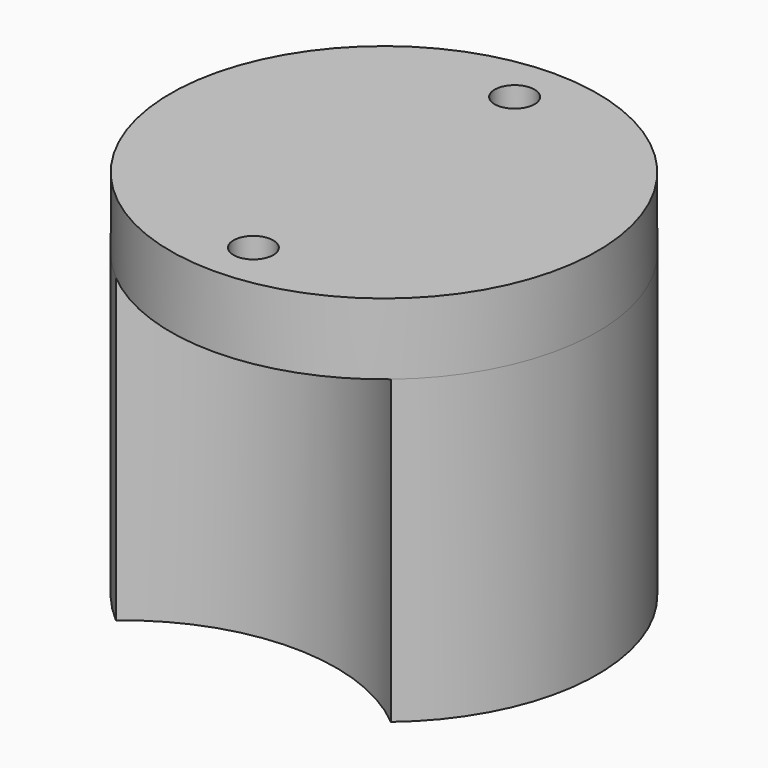
from build123d import *

# Parameters (mm, degrees)
SKETCH076_R             = 15
PAD017_DEPTH            = 5
SKETCH075_R             = 1.4
POCKET048_DEPTH         = 5.001
PAD018_DEPTH            = 21.2
SKETCH074_R             = 4
POCKET047_DEPTH         = 4
SKETCH078_R             = 1.4
POCKET049_DEPTH         = 8
BODY001_ROLL_ANGLE      = -90
BODY001_PLACEMENT_ANGLE = -90


with BuildPart() as part:
    # Sketch076 → Pad017 (new body)
    with BuildSketch(Plane.XZ):
        Circle(SKETCH076_R)
    extrude(amount=PAD017_DEPTH)

    # Sketch075 (on Face2 of Pad017) → Pocket048 (cut, through all)
    with BuildSketch(Plane(origin=(0, 0, 0), x_dir=(1, 0, 0), z_dir=(0, 1, 0))):
        with Locations((-11.475, 0)):
            Circle(SKETCH075_R)
        with Locations((11.475, 0)):
            Circle(SKETCH075_R)
    extrude(amount=-POCKET048_DEPTH, mode=Mode.SUBTRACT)

    # Sketch077 (on Face2 of Pocket048) → Pad018 (join)
    with BuildSketch(Plane(origin=(0, 0, 0), x_dir=(1, 0, 0), z_dir=(0, 1, 0))):
        with BuildLine():
            ThreePointArc((11.475, 9.660454), (0, 15), (-11.475, 9.660454))
            ThreePointArc((-11.475, -9.660454), (-7.95, 0), (-11.475, 9.660454))
            ThreePointArc((-11.475, -9.660454), (0, -15), (11.475, -9.660454))
            ThreePointArc((11.475, 9.660454), (7.95, 0), (11.475, -9.660454))
        make_face()
    extrude(amount=PAD018_DEPTH)

    # Sketch074 (on Face10 of Pad018) → Pocket047 (cut)
    with BuildSketch(Plane(origin=(0, 21.2, 0), x_dir=(1, 0, 0), z_dir=(0, 1, 0))):
        Circle(SKETCH074_R)
    extrude(amount=-POCKET047_DEPTH, mode=Mode.SUBTRACT)

    # Sketch078 (on Face10 of Pocket047) → Pocket049 (cut)
    with BuildSketch(Plane(origin=(0, 21.2, 0), x_dir=(1, 0, 0), z_dir=(0, 1, 0))):
        with Locations((-7.95, 9.660454)):
            Circle(SKETCH078_R)
        with Locations((7.95, 9.660454)):
            Circle(SKETCH078_R)
        with Locations((-7.95, -9.660454)):
            Circle(SKETCH078_R)
        with Locations((7.95, -9.660454)):
            Circle(SKETCH078_R)
    extrude(amount=-POCKET049_DEPTH, mode=Mode.SUBTRACT)


with BuildPart() as part_1:
    # Body001 roll: moved
    add(part.part.rotate(Axis((0, 0, 0), (1, 0, 0)), BODY001_ROLL_ANGLE))


with BuildPart() as part_2:
    # Body001 placement: moved
    add(part_1.part.moved(Location((75.2, 74.8, 64.5))).rotate(Axis((75.2, 74.8, 64.5), (0, 0, 1)), BODY001_PLACEMENT_ANGLE))


solid = part_2.part
